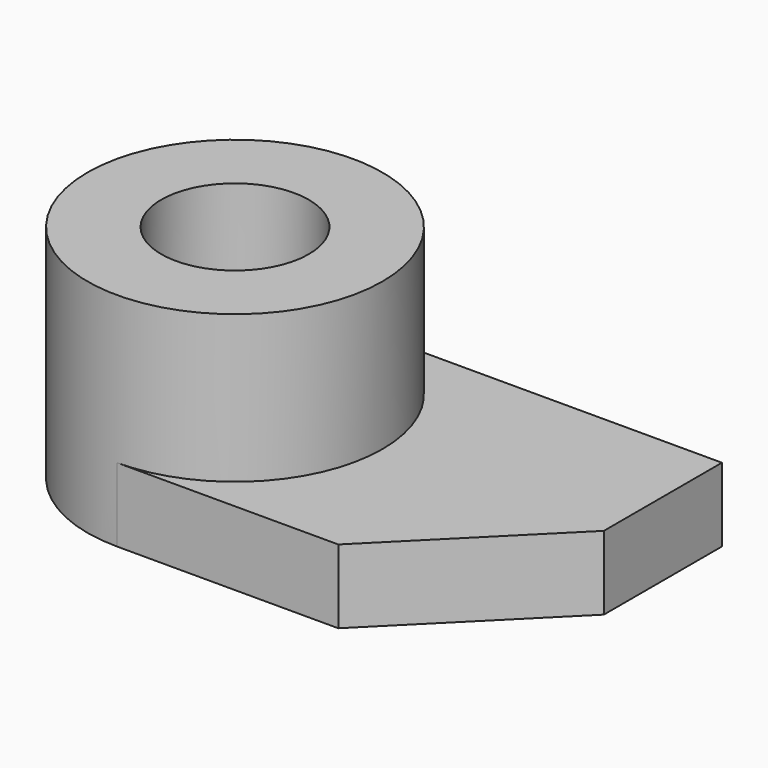
from build123d import *

# Parameters (mm, degrees)
F1_DEPTH = 6.35
F2_R     = 12.7
F2_R_2   = 6.35
F3_DEPTH = 12.7


with BuildPart() as f1:
    # F0 (on Top) → F1 (new body)
    with BuildSketch(Plane.XY):
        with BuildLine():
            Line((44.45, 25.4), (12.7, 25.4))
            ThreePointArc((12.7, 25.4), (0, 12.7), (12.7, 0))
            Line((12.7, 0), (31.75, 0))
            Line((31.75, 0), (44.45, 12.7))
            Line((44.45, 12.7), (44.45, 25.4))
        make_face()
    extrude(amount=F1_DEPTH)

    # F2 (on face) → F3 (join)
    with BuildSketch(Plane.XY.offset(6.35)):
        with Locations((12.7, 12.7)):
            Circle(F2_R)
        with Locations((12.7, 12.7)):
            Circle(F2_R_2, mode=Mode.SUBTRACT)
    extrude(amount=F3_DEPTH)


solid = f1.part
